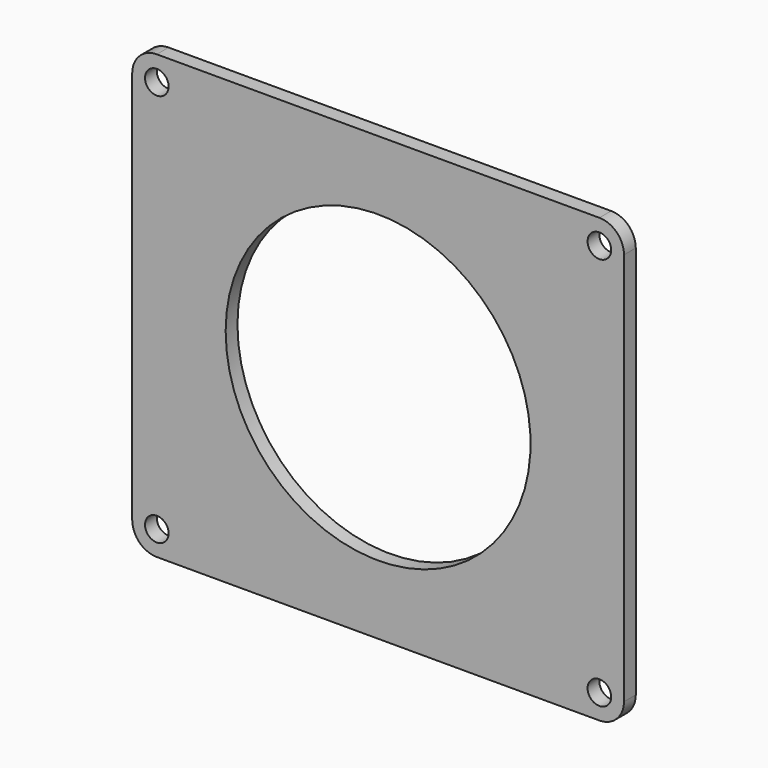
from build123d import *

# Parameters (mm, degrees)
F0_W     = 100
F0_H     = 90
F1_DEPTH = 3
F3_D     = 4.8
F3_DEPTH = 10
F4_R     = 5
F6_D     = 62
F6_DEPTH = 10


with BuildPart() as f1:
    # F0 (on Front) → F1 (new body)
    with BuildSketch(Plane.XZ):
        with Locations((-1726.19823, -1534.163168)):
            Rectangle(F0_W, F0_H)
    extrude(amount=F1_DEPTH)

    # F3
    with Locations(Plane.XZ.offset(3)):
        with Locations((-1771.19823, -1494.163168), (-1681.19823, -1494.163168), (-1681.19823, -1574.163168), (-1771.19823, -1574.163168)):
            Hole(F3_D / 2, depth=F3_DEPTH)

    # F4
    f4_edges = [f1.edges().sort_by_distance(p)[0] for p in [
        (-1676.19823, -1.5, -1489.163168),
        (-1676.19823, -1.5, -1579.163168),
        (-1776.19823, -1.5, -1489.163168),
        (-1776.19823, -1.5, -1579.163168),
    ]]
    fillet(f4_edges, radius=F4_R)

    # F6
    with Locations(Plane.XZ.offset(3)):
        with Locations((-1726.19823, -1534.163168)):
            Hole(F6_D / 2, depth=F6_DEPTH)


solid = f1.part
